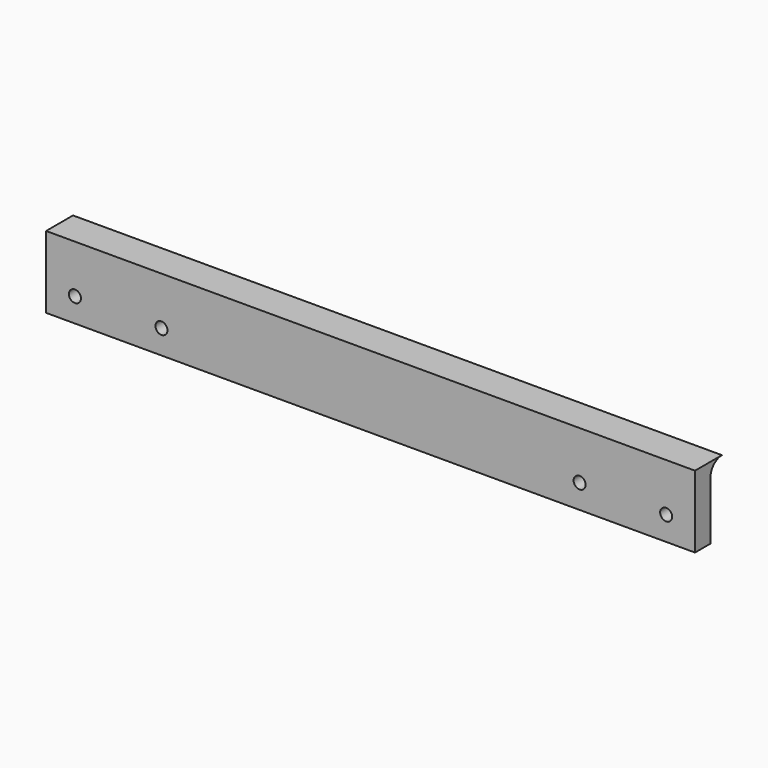
from build123d import *

# Parameters (mm, degrees)
CYLINDER183_R     = 1.25
CYLINDER183_DEPTH = 10
CYLINDER182_R     = 1.25
CYLINDER182_DEPTH = 10
CYLINDER181_R     = 1.25
CYLINDER181_DEPTH = 10
CYLINDER180_R     = 1.25
CYLINDER180_DEPTH = 10
BOX092_W          = 135
BOX092_H          = 10
BOX092_DEPTH      = 15
FILLET049_R       = 3
BOX093_W          = 135
BOX093_H          = 10
BOX093_DEPTH      = 15


with BuildPart() as cylinder183:
    # Cylinder183 → Cylinder183 (new body)
    with BuildSketch(Plane(origin=(564, 0, 10), x_dir=(1, 0, 0), z_dir=(0, -1, 0))):
        Circle(CYLINDER183_R)
    extrude(amount=CYLINDER183_DEPTH)


with BuildPart() as cylinder182:
    # Cylinder182 → Cylinder182 (new body)
    with BuildSketch(Plane(origin=(546, 0, 10), x_dir=(1, 0, 0), z_dir=(0, -1, 0))):
        Circle(CYLINDER182_R)
    extrude(amount=CYLINDER182_DEPTH)


with BuildPart() as cylinder181:
    # Cylinder181 → Cylinder181 (new body)
    with BuildSketch(Plane(origin=(459, 0, 10), x_dir=(1, 0, 0), z_dir=(0, -1, 0))):
        Circle(CYLINDER181_R)
    extrude(amount=CYLINDER181_DEPTH)


with BuildPart() as fusion155:
    # Cylinder180 → Cylinder180 (new body)
    with BuildSketch(Plane(origin=(441, 0, 10), x_dir=(1, 0, 0), z_dir=(0, -1, 0))):
        Circle(CYLINDER180_R)
    extrude(amount=CYLINDER180_DEPTH)

    # Fusion155: union Cylinder183, Cylinder182, Cylinder181
    add(cylinder183.part)
    add(cylinder182.part)
    add(cylinder181.part)


with BuildPart() as fillet049:
    # Box092 → Box092 (new body)
    with BuildSketch(Plane(origin=(435, 0, 5), x_dir=(1, 0, 0), z_dir=(0, 0, 1))):
        with Locations((67.5, 5)):
            Rectangle(BOX092_W, BOX092_H)
    extrude(amount=BOX092_DEPTH)

    # Fillet049
    fillet049_edges = [fillet049.edges().sort_by_distance(p)[0] for p in [
        (502.5, 0, 20),
    ]]
    fillet(fillet049_edges, radius=FILLET049_R)


with BuildPart() as fenders_holes:
    # Box093 → Box093 (new body)
    with BuildSketch(Plane(origin=(435, -4, 5), x_dir=(1, 0, 0), z_dir=(0, 0, 1))):
        with Locations((67.5, 5)):
            Rectangle(BOX093_W, BOX093_H)
    extrude(amount=BOX093_DEPTH)

    # Cut112: cut Fillet049
    add(fillet049.part, mode=Mode.SUBTRACT)

    # Cut113: cut Fusion155
    add(fusion155.part, mode=Mode.SUBTRACT)


solid = fenders_holes.part
